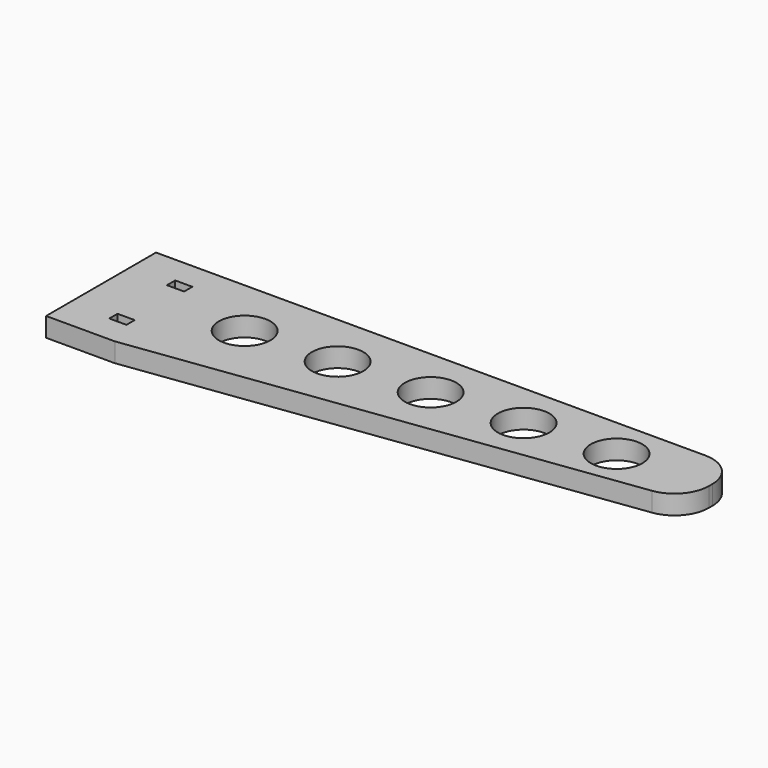
from build123d import *

# Parameters (mm, degrees)
F0_W     = 0.5
F0_H     = 0.3
F0_R     = 0.75
F1_DEPTH = 0.56


with BuildPart() as f1:
    # F0 (on Top) → F1 (new body)
    with BuildSketch(Plane.XY):
        with BuildLine():
            Line((14, 4), (0, 4))
            Line((0, 4), (-2, 4))
            Line((-2, 4), (-2, 0))
            Line((-2, 0), (0, 0))
            Line((0, 0), (14.132164, 1.884288))
            ThreePointArc((14.132164, 1.884288), (14.752384, 2.216792), (15, 2.875516))
            Line((15, 2.875516), (15, 3))
            ThreePointArc((15, 3), (14.707107, 3.707107), (14, 4))
        make_face()
        with Locations((-0.55, 0.95)):
            Rectangle(F0_W, F0_H, mode=Mode.SUBTRACT)
        with Locations((1.981743, 2.249582)):
            Circle(F0_R, mode=Mode.SUBTRACT)
        with Locations((4.578013, 2.3888)):
            Circle(F0_R, mode=Mode.SUBTRACT)
        with Locations((-0.55, 3.05)):
            Rectangle(F0_W, F0_H, mode=Mode.SUBTRACT)
        with Locations((7.174283, 2.528018)):
            Circle(F0_R, mode=Mode.SUBTRACT)
        with Locations((9.770553, 2.667237)):
            Circle(F0_R, mode=Mode.SUBTRACT)
        with Locations((12.366823, 2.806455)):
            Circle(F0_R, mode=Mode.SUBTRACT)
    extrude(amount=F1_DEPTH)


solid = f1.part
